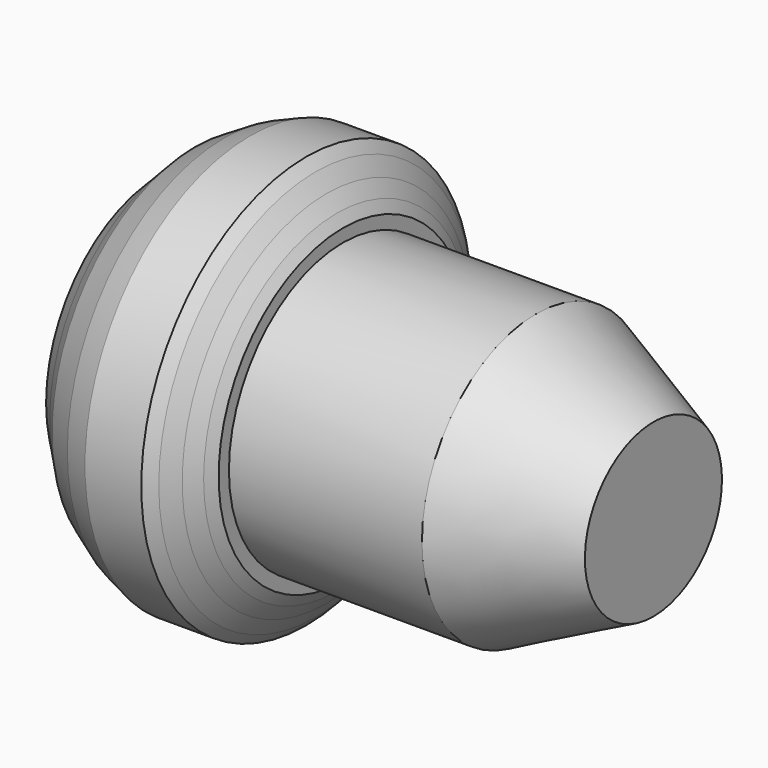
from build123d import *


with BuildPart() as f1:
    # F0 (on Front) → F1 (revolve)
    with BuildSketch(Plane.XZ):
        Polygon((-75.285599, 0), (0, 0), (45.795809, 22.21572), (45.795809, 55.626001), (-100.584, 55.626001), (-138.684005, 55.626001), (-145.694405, 35.814002), (-150.266394, 21.183599), (-150.266394, 14.1732), (-146.6088, 0), (-138.988808, -7.772401), (-132.892802, -14.1732), (-121.615201, -20.878801), (-111.556806, -24.841201), (-100.888804, -24.841201), (-89.611202, -24.841201), (-85.953601, -20.878801), (-81.6864, -14.7828), (-77.724002, -9.2964), (-75.285599, -5.0292), align=None)
    revolve(axis=Axis((-27.394095, 0, 55.626001), (-1, 0, 0)))


solid = f1.part
